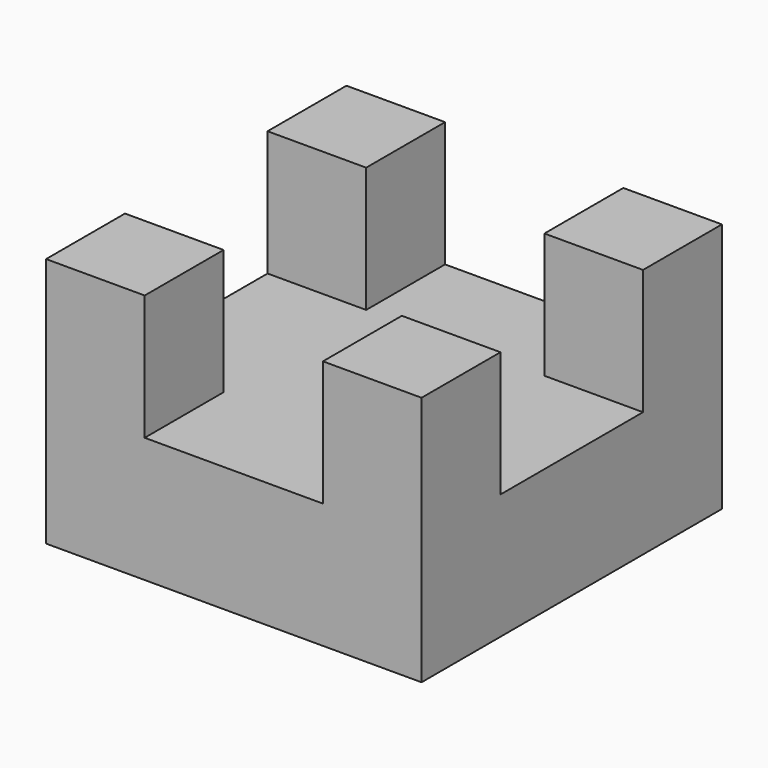
from build123d import *

# Parameters (mm, degrees)
SKETCH_W        = 76.142136
SKETCH_H        = 76.142136
PAD_DEPTH       = 25.4
SKETCH001_W     = 20
SKETCH001_H     = 20
PAD001_DEPTH    = 25.4
SKETCH002_W     = 65
SKETCH002_H     = 65
POCKET_DEPTH    = 8.35
SKETCH003_R     = 2.1463
POCKET001_DEPTH = 10


with BuildPart() as part:
    # Sketch → Pad (new body)
    with BuildSketch(Plane.XY):
        Rectangle(SKETCH_W, SKETCH_H)
    extrude(amount=PAD_DEPTH)

    # Sketch001 (on Face6 of Pad) → Pad001 (join)
    with BuildSketch(Plane.XY.offset(25.4)):
        with Locations((-28.071068, 28.071068)):
            Rectangle(SKETCH001_W, SKETCH001_H)
        with Locations((28.071068, 28.071068)):
            Rectangle(SKETCH001_W, SKETCH001_H)
        with Locations((28.071068, -28.071068)):
            Rectangle(SKETCH001_W, SKETCH001_H)
        with Locations((-28.071068, -28.071068)):
            Rectangle(SKETCH001_W, SKETCH001_H)
    extrude(amount=PAD001_DEPTH)

    # Sketch002 (on Face4 of Pad001) → Pocket (cut)
    with BuildSketch(Plane(origin=(0, 0, 0), x_dir=(1, 0, 0), z_dir=(0, 0, -1))):
        Rectangle(SKETCH002_W, SKETCH002_H)
    extrude(amount=-POCKET_DEPTH, mode=Mode.SUBTRACT)

    # Sketch003 (on Face1 of Pocket) → Pocket001 (cut)
    with BuildSketch(Plane(origin=(0, 38.071068, 0), x_dir=(-1, 0, 0), z_dir=(0, 1, 0))):
        with Locations((-28.071068, 12.7)):
            Circle(SKETCH003_R)
        with Locations((28.071068, 12.7)):
            Circle(SKETCH003_R)
    extrude(amount=-POCKET001_DEPTH, mode=Mode.SUBTRACT)


solid = part.part
